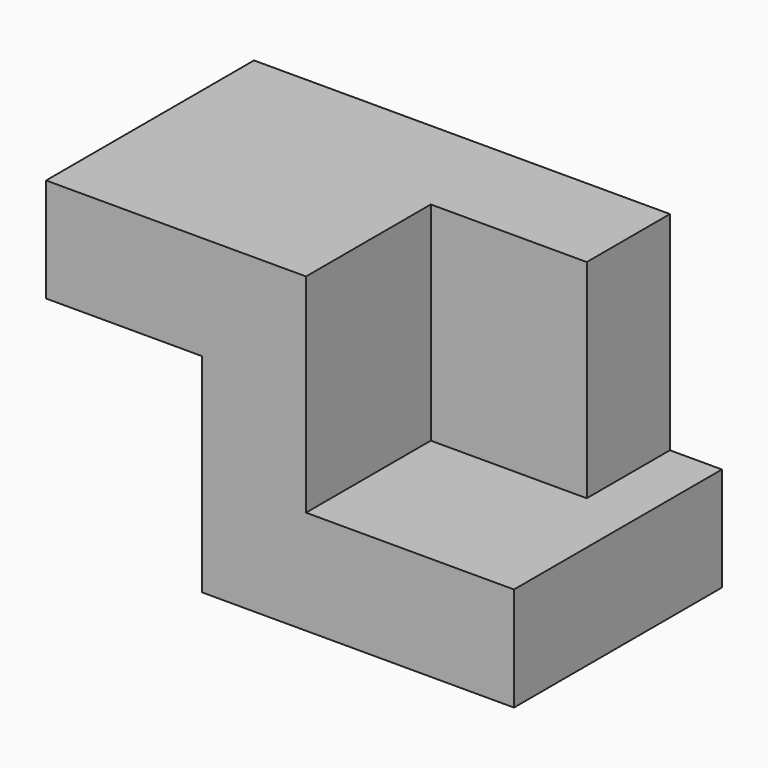
from build123d import *

# Parameters (mm, degrees)
F1_DEPTH = 63.5
F2_W     = 38.1
F2_H     = 25.4
F3_DEPTH = 50.8


with BuildPart() as f1:
    # F0 (on Front) → F1 (new body)
    with BuildSketch(Plane.XZ):
        Polygon((-31.872254, 44.087891), (-31.872254, -6.712109), (44.327746, -6.712109), (44.327746, 18.687891), (-6.472254, 18.687891), (-6.472254, 69.487891), (-69.972254, 69.487891), (-69.972254, 44.087891), align=None)
    extrude(amount=-F1_DEPTH)

    # F2 (on face) → F3 (join)
    with BuildSketch(Plane.XY.offset(18.687891)):
        with Locations((12.577746, 50.8)):
            Rectangle(F2_W, F2_H)
    extrude(amount=F3_DEPTH)


solid = f1.part
